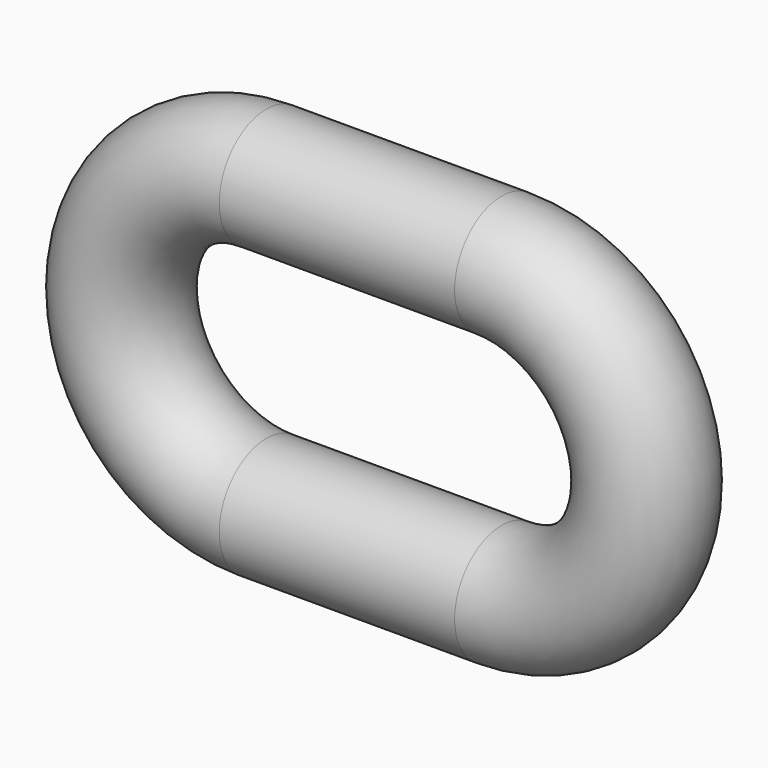
from build123d import *

# Parameters (mm, degrees)
F2_R = 4


with BuildPart() as f3:
    # F3: sweep along a path in F0
    with BuildLine(Plane.XZ) as f3_path:
        ThreePointArc((-8, 9.85), (-17.85, 0), (-8, -9.85))
        Line((-8, -9.85), (8, -9.85))
        ThreePointArc((8, -9.85), (17.85, 0), (8, 9.85))
        Line((8, 9.85), (-8, 9.85))
    # F2 (on offset) → F3 (sweep)
    with BuildSketch(Plane.YZ.offset(-8)):
        with Locations((0, 9.85)):
            Circle(F2_R)
    sweep(path=f3_path.line)


solid = f3.part
